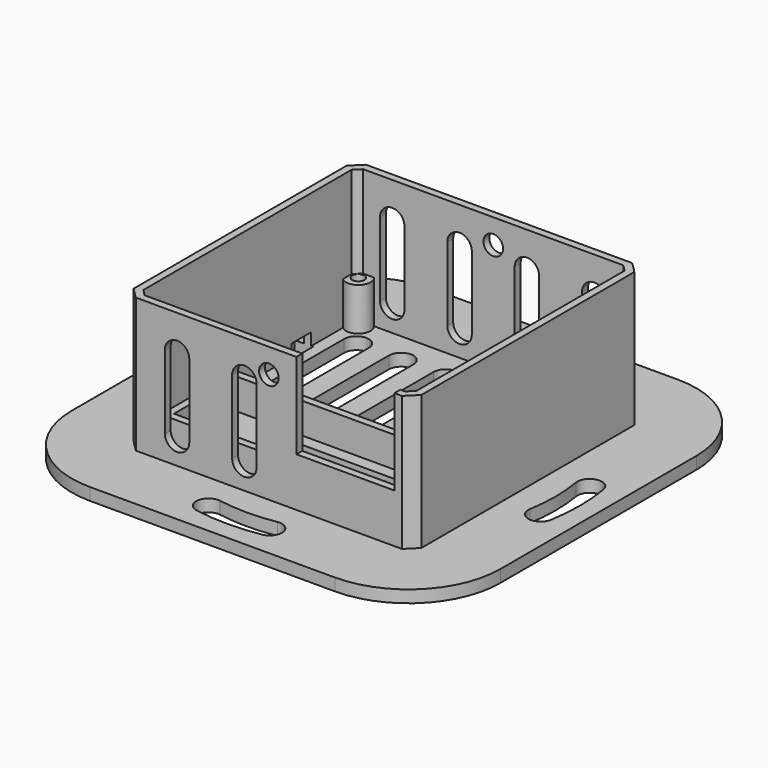
from build123d import *

# Parameters (mm, degrees)
SKETCH_W        = 70
SKETCH_H        = 70
PAD_DEPTH       = 2
PAD001_DEPTH    = 22
POCKET_DEPTH    = 22
SKETCH003_W     = 16
SKETCH003_H     = 23.864653
POCKET001_DEPTH = 18
SKETCH005_W     = 41.4
SKETCH005_H     = 15.4
PAD003_DEPTH    = 4
SKETCH006_W     = 39
SKETCH006_H     = 13
POCKET002_DEPTH = 5
SKETCH007_W     = 23
SKETCH007_H     = 7
POCKET003_DEPTH = 1.001
POCKET004_DEPTH = 5
SKETCH009_R     = 1.6
POCKET005_DEPTH = 58.501
SKETCH010_R     = 2
SKETCH010_W     = 2.5
SKETCH010_H     = 3
SKETCH010_W_2   = 3
PAD004_DEPTH    = 7
POCKET006_DEPTH = 5
POCKET007_DEPTH = 2
FILLET_R        = 15
SKETCH014_W     = 3
SKETCH014_H     = 4
POCKET009_DEPTH = 4
SKETCH015_R     = 1
POCKET010_DEPTH = 24.001


with BuildPart() as part:
    # Sketch → Pad (new body)
    with BuildSketch(Plane.XY):
        Rectangle(SKETCH_W, SKETCH_H)
        with BuildLine():
            ThreePointArc((27.608372, -4.666667), (28, 0), (27.608372, 4.666667))
            ThreePointArc((31.552426, 5.333333), (29.247066, 6.972027), (27.608372, 4.666667))
            ThreePointArc((31.552426, -5.333333), (32, 0), (31.552426, 5.333333))
            ThreePointArc((27.608372, -4.666667), (29.247066, -6.972027), (31.552426, -5.333333))
        make_face(mode=Mode.SUBTRACT)
        with BuildLine():
            ThreePointArc((-27.608372, 4.666667), (-28, 0), (-27.608372, -4.666667))
            ThreePointArc((-31.552426, -5.333333), (-29.247066, -6.972027), (-27.608372, -4.666667))
            ThreePointArc((-31.552426, 5.333333), (-32, 0), (-31.552426, -5.333333))
            ThreePointArc((-27.608372, 4.666667), (-29.247066, 6.972027), (-31.552426, 5.333333))
        make_face(mode=Mode.SUBTRACT)
        with BuildLine():
            ThreePointArc((4.666667, 27.608372), (-1e-06, 28), (-4.666668, 27.608372))
            ThreePointArc((-5.333333, 31.552426), (-6.972027, 29.247066), (-4.666668, 27.608372))
            ThreePointArc((5.333333, 31.552426), (0, 32), (-5.333333, 31.552426))
            ThreePointArc((4.666667, 27.608372), (6.972027, 29.247066), (5.333333, 31.552426))
        make_face(mode=Mode.SUBTRACT)
        with BuildLine():
            ThreePointArc((-4.666659, -27.608374), (4e-06, -28), (4.666667, -27.608372))
            ThreePointArc((5.333333, -31.552426), (6.972027, -29.247066), (4.666667, -27.608372))
            ThreePointArc((-5.333319, -31.552428), (7e-06, -32), (5.333333, -31.552426))
            ThreePointArc((-4.666659, -27.608374), (-6.972027, -29.247069), (-5.333319, -31.552428))
        make_face(mode=Mode.SUBTRACT)
    extrude(amount=PAD_DEPTH)

    # Sketch001 (on Face22 of Pad) → Pad001 (join)
    with BuildSketch(Plane.XY.offset(2)):
        with BuildLine():
            Line((21.719807, -23.5), (-21.719807, -23.5))
            ThreePointArc((-23.5, -21.719807), (-22.627417, -22.627417), (-21.719807, -23.5))
            Line((-23.5, 21.719807), (-23.5, -21.719807))
            ThreePointArc((-21.719807, 23.5), (-22.627417, 22.627417), (-23.5, 21.719807))
            Line((-21.719807, 23.5), (21.719807, 23.5))
            ThreePointArc((23.5, 21.719807), (22.627417, 22.627417), (21.719807, 23.5))
            Line((23.5, 21.719807), (23.5, -21.719807))
            ThreePointArc((21.719807, -23.5), (22.627417, -22.627417), (23.5, -21.719807))
        make_face()
    extrude(amount=PAD001_DEPTH)

    # Sketch002 (on Face31 of Pad001) → Pocket (cut)
    with BuildSketch(Plane.XY.offset(24)):
        with BuildLine():
            Line((-22.3, 21.244999), (-22.3, -21.244999))
            ThreePointArc((-22.3, -21.244999), (-21.778889, -21.778889), (-21.244999, -22.3))
            Line((-21.244999, -22.3), (21.244999, -22.3))
            ThreePointArc((21.244999, -22.3), (21.778889, -21.778889), (22.3, -21.244999))
            Line((22.3, 21.244999), (22.3, -21.244999))
            ThreePointArc((22.3, 21.244999), (21.778889, 21.778889), (21.244999, 22.3))
            Line((-21.244999, 22.3), (21.244999, 22.3))
            ThreePointArc((-21.244999, 22.3), (-21.778889, 21.778889), (-22.3, 21.244999))
        make_face()
    extrude(amount=-POCKET_DEPTH, mode=Mode.SUBTRACT)

    # Sketch003 (on Face23 of Pocket) → Pocket001 (cut)
    with BuildSketch(Plane.XZ.offset(23.5)):
        with Locations((12.5, 21.932326)):
            Rectangle(SKETCH003_W, SKETCH003_H)
    extrude(amount=-POCKET001_DEPTH, mode=Mode.SUBTRACT)

    # Sketch005 (on Face43 of Pocket001) → Pad003 (join)
    with BuildSketch(Plane.XY.offset(2)):
        with Locations((0, -12)):
            Rectangle(SKETCH005_W, SKETCH005_H)
    extrude(amount=PAD003_DEPTH)

    # Sketch006 (on Face48 of Pad003) → Pocket002 (cut)
    with BuildSketch(Plane.XY.offset(6)):
        with Locations((0, -12)):
            Rectangle(SKETCH006_W, SKETCH006_H)
    extrude(amount=-POCKET002_DEPTH, mode=Mode.SUBTRACT)

    # Sketch007 (on Face53 of Pocket002) → Pocket003 (cut, through all)
    with BuildSketch(Plane.XY.offset(1)):
        with Locations((0, -11)):
            Rectangle(SKETCH007_W, SKETCH007_H)
    extrude(amount=-POCKET003_DEPTH, mode=Mode.SUBTRACT)

    # Sketch008 (on Face53 of Pocket003) → Pocket004 (cut)
    with BuildSketch(Plane.XY.offset(2)):
        with BuildLine():
            Line((-20.25, 17.174446), (-20.25, 0.174446))
            ThreePointArc((-20.25, 0.174446), (-18.25, -1.825554), (-16.25, 0.174446))
            Line((-16.25, 17.174446), (-16.25, 0.174446))
            ThreePointArc((-16.25, 17.174446), (-18.25, 19.174446), (-20.25, 17.174446))
        make_face()
        with BuildLine():
            Line((-12.95, 17.174446), (-12.95, 0.174446))
            ThreePointArc((-12.95, 0.174446), (-10.95, -1.825554), (-8.95, 0.174446))
            Line((-8.95, 17.174446), (-8.95, 0.174446))
            ThreePointArc((-8.95, 17.174446), (-10.95, 19.174446), (-12.95, 17.174446))
        make_face()
        with BuildLine():
            Line((-5.65, 17.174446), (-5.65, 0.174446))
            ThreePointArc((-5.65, 0.174446), (-3.65, -1.825554), (-1.65, 0.174446))
            Line((-1.65, 17.174446), (-1.65, 0.174446))
            ThreePointArc((-1.65, 17.174446), (-3.65, 19.174446), (-5.65, 17.174446))
        make_face()
        with BuildLine():
            Line((1.65, 17.174446), (1.65, 0.174446))
            ThreePointArc((1.65, 0.174446), (3.65, -1.825554), (5.65, 0.174446))
            Line((5.65, 17.174446), (5.65, 0.174446))
            ThreePointArc((5.65, 17.174446), (3.65, 19.174446), (1.65, 17.174446))
        make_face()
        with BuildLine():
            Line((8.95, 17.174446), (8.95, 0.174446))
            ThreePointArc((8.95, 0.174446), (10.95, -1.825554), (12.95, 0.174446))
            Line((12.95, 17.174446), (12.95, 0.174446))
            ThreePointArc((12.95, 17.174446), (10.95, 19.174446), (8.95, 17.174446))
        make_face()
        with BuildLine():
            Line((16.25, 17.174446), (16.25, 0.174446))
            ThreePointArc((16.25, 0.174446), (18.25, -1.825554), (20.25, 0.174446))
            Line((20.25, 17.174446), (20.25, 0.174446))
            ThreePointArc((20.25, 17.174446), (18.25, 19.174446), (16.25, 17.174446))
        make_face()
        with BuildLine():
            Line((3.5, -20.045416), (17.5, -20.045416))
            ThreePointArc((17.5, -22.045416), (18.5, -21.045416), (17.5, -20.045416))
            Line((3.5, -22.045416), (17.5, -22.045416))
            ThreePointArc((3.5, -20.045416), (2.5, -21.045416), (3.5, -22.045416))
        make_face()
        with BuildLine():
            Line((-17.5, -20.045416), (-3.5, -20.045416))
            ThreePointArc((-3.5, -22.045416), (-2.5, -21.045416), (-3.5, -20.045416))
            Line((-17.5, -22.045416), (-3.5, -22.045416))
            ThreePointArc((-17.5, -20.045416), (-18.5, -21.045416), (-17.5, -22.045416))
        make_face()
    extrude(amount=-POCKET004_DEPTH, mode=Mode.SUBTRACT)

    # Sketch009 (on Face59 of Pocket004) → Pocket005 (cut, through all)
    with BuildSketch(Plane.XZ.offset(23.5)):
        with Locations((0, 20)):
            Circle(SKETCH009_R)
    extrude(amount=-POCKET005_DEPTH, mode=Mode.SUBTRACT)

    # Sketch010 (on Face67 of Pocket005) → Pad004 (join)
    with BuildSketch(Plane.XY.offset(2)):
        with Locations((21, 21)):
            Circle(SKETCH010_R)
        with Locations((-21, 21)):
            Circle(SKETCH010_R)
        with Locations((-21, -21)):
            Circle(SKETCH010_R)
        with Locations((21.75, 4.5)):
            Rectangle(SKETCH010_W, SKETCH010_H)
        with Locations((0, -21)):
            Rectangle(SKETCH010_W_2, SKETCH010_H)
    extrude(amount=PAD004_DEPTH)

    # Sketch011 (on Face63 of Pad004) → Pocket006 (cut)
    with BuildSketch(Plane(origin=(0, 23.5, 0), x_dir=(-1, 0, 0), z_dir=(0, 1, 0))):
        with BuildLine():
            Line((-18.5, 17.993099), (-18.5, 5.993099))
            ThreePointArc((-18.5, 5.993099), (-16.5, 3.993099), (-14.5, 5.993099))
            Line((-14.5, 17.993099), (-14.5, 5.993099))
            ThreePointArc((-14.5, 17.993099), (-16.5, 19.993099), (-18.5, 17.993099))
        make_face()
        with BuildLine():
            Line((-7.5, 17.993099), (-7.5, 5.993099))
            ThreePointArc((-7.5, 5.993099), (-5.5, 3.993099), (-3.5, 5.993099))
            Line((-3.5, 17.993099), (-3.5, 5.993099))
            ThreePointArc((-3.5, 17.993099), (-5.5, 19.993099), (-7.5, 17.993099))
        make_face()
        with BuildLine():
            Line((3.5, 17.993099), (3.5, 5.993099))
            ThreePointArc((3.5, 5.993099), (5.5, 3.993099), (7.5, 5.993099))
            Line((7.5, 17.993099), (7.5, 5.993099))
            ThreePointArc((7.5, 17.993099), (5.5, 19.993099), (3.5, 17.993099))
        make_face()
        with BuildLine():
            Line((14.5, 17.993099), (14.5, 5.993099))
            ThreePointArc((14.5, 5.993099), (16.5, 3.993099), (18.5, 5.993099))
            Line((18.5, 17.993099), (18.5, 5.993099))
            ThreePointArc((18.5, 17.993099), (16.5, 19.993099), (14.5, 17.993099))
        make_face()
    extrude(amount=-POCKET006_DEPTH, mode=Mode.SUBTRACT)

    # Sketch012 (on Face59 of Pocket006) → Pocket007 (cut)
    with BuildSketch(Plane.XZ.offset(23.5)):
        with BuildLine():
            Line((-17, 18), (-17, 6))
            ThreePointArc((-17, 6), (-15, 4), (-13, 6))
            Line((-13, 18), (-13, 6))
            ThreePointArc((-13, 18), (-15, 20), (-17, 18))
        make_face()
        with BuildLine():
            Line((-6, 18), (-6, 6))
            ThreePointArc((-6, 6), (-4, 4), (-2, 6))
            Line((-2, 18), (-2, 6))
            ThreePointArc((-2, 18), (-4, 20), (-6, 18))
        make_face()
    extrude(amount=-POCKET007_DEPTH, mode=Mode.SUBTRACT)

    # Fillet
    fillet_edges = [part.edges().sort_by_distance(p)[0] for p in [
        (-35, -35, 1),
        (-35, 35, 1),
        (35, -35, 1),
        (35, 35, 1),
    ]]
    fillet(fillet_edges, radius=FILLET_R)

    # Sketch014 (on Face2 of Fillet) → Pocket009 (cut)
    with BuildSketch(Plane(origin=(0, 0, 0), x_dir=(1, 0, 0), z_dir=(0, 0, -1))):
        with Locations((-23.5, -11)):
            Rectangle(SKETCH014_W, SKETCH014_H)
    extrude(amount=-POCKET009_DEPTH, mode=Mode.SUBTRACT)

    # Sketch015 (on Face2 of Pocket009) → Pocket010 (cut, through all)
    with BuildSketch(Plane(origin=(0, 0, 0), x_dir=(1, 0, 0), z_dir=(0, 0, -1))):
        with Locations((-21, 21)):
            Circle(SKETCH015_R)
        with Locations((-21, -21)):
            Circle(SKETCH015_R)
    extrude(amount=-POCKET010_DEPTH, mode=Mode.SUBTRACT)


solid = part.part
